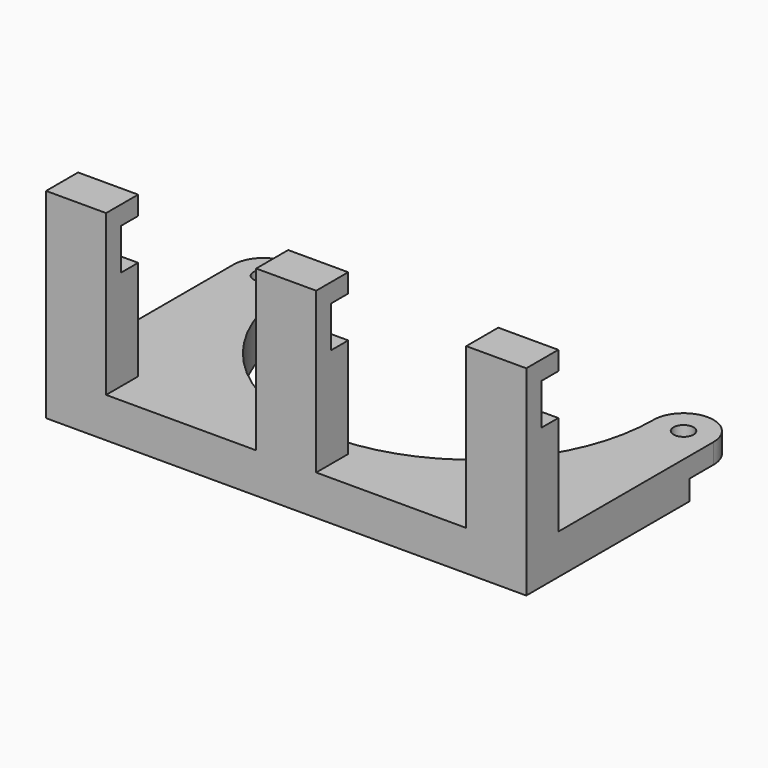
from build123d import *

# Parameters (mm, degrees)
F0_R     = 2.5
F1_DEPTH = 10
F3_DEPTH = 5
F4_W     = 15
F4_H     = 10
F5_DEPTH = 40
F6_W     = 5.3
F6_H     = 10.3
F7_DEPTH = 120.001


with BuildPart() as f1:
    # F0 (on Top) → F1 (new body)
    with BuildSketch(Plane.XY):
        with BuildLine():
            ThreePointArc((105, 7.5), (60, -37.5), (15, 7.5))
            ThreePointArc((15, 7.5), (7.5, 15), (0, 7.5))
            Line((0, 7.5), (0, -51))
            Line((0, -51), (120, -51))
            Line((120, -51), (120, 7.5))
            ThreePointArc((120, 7.5), (112.5, 15), (105, 7.5))
        make_face()
        with Locations((7.5, 7.5)):
            Circle(F0_R, mode=Mode.SUBTRACT)
        with Locations((112.5, 7.5)):
            Circle(F0_R, mode=Mode.SUBTRACT)
    extrude(amount=F1_DEPTH)

    # F2 (on face) → F3 (cut)
    with BuildSketch(Plane(origin=(0, 0, 0), x_dir=(1, 0, 0), z_dir=(0, 0, -1))):
        with BuildLine():
            ThreePointArc((0, -7.5), (7.5, -15), (15, -7.5))
            ThreePointArc((15, -7.5), (15.157626, -3.736818), (15.629402, 0))
            Line((15.629402, 0), (0, 0))
            Line((0, 0), (0, -7.5))
        make_face()
        with BuildLine():
            ThreePointArc((15.629402, 0), (15.157626, -3.736818), (15, -7.5))
            ThreePointArc((15, -7.5), (60, -52.5), (105, -7.5))
            ThreePointArc((105, -7.5), (112.5, -15), (120, -7.5))
            Line((120, -7.5), (120, 0))
            Line((120, 0), (104.370598, 0))
            ThreePointArc((104.370598, 0), (60, 37.5), (15.629402, 0))
        make_face()
    extrude(amount=-F3_DEPTH, mode=Mode.SUBTRACT)

    # F4 (on face) → F5 (join)
    with BuildSketch(Plane.XY.offset(10)):
        with Locations((7.5, -46)):
            Rectangle(F4_W, F4_H)
        with Locations((112.5, -46)):
            Rectangle(F4_W, F4_H)
        with Locations((60, -46)):
            Rectangle(F4_W, F4_H)
    extrude(amount=F5_DEPTH)

    # F6 (on face) → F7 (cut, through all)
    with BuildSketch(Plane(origin=(0, 0, 0), x_dir=(0, -1, 0), z_dir=(-1, 0, 0))):
        with Locations((43.65, 40.15)):
            Rectangle(F6_W, F6_H)
    extrude(amount=-F7_DEPTH, mode=Mode.SUBTRACT)


solid = f1.part
